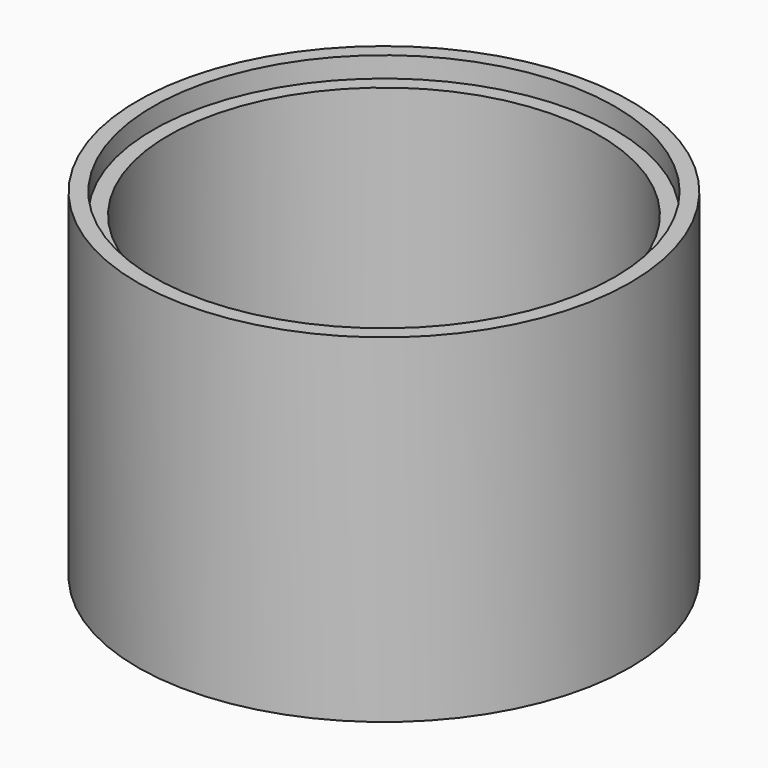
from build123d import *

# Parameters (mm, degrees)
F0_R     = 60
F1_DEPTH = 7.5
F2_R     = 60
F2_R_2   = 52.5
F3_DEPTH = 75
F4_R     = 56.25
F5_DEPTH = 5


with BuildPart() as f1:
    # F0 (on Top) → F1 (new body)
    with BuildSketch(Plane.XY):
        Circle(F0_R)
    extrude(amount=F1_DEPTH)

    # F2 (on face) → F3 (join)
    with BuildSketch(Plane.XY.offset(7.5)):
        Circle(F2_R)
        Circle(F2_R_2, mode=Mode.SUBTRACT)
    extrude(amount=F3_DEPTH)

    # F4 (on face) → F5 (cut)
    with BuildSketch(Plane.XY.offset(82.5)):
        Circle(F4_R)
    extrude(amount=-F5_DEPTH, mode=Mode.SUBTRACT)


solid = f1.part
